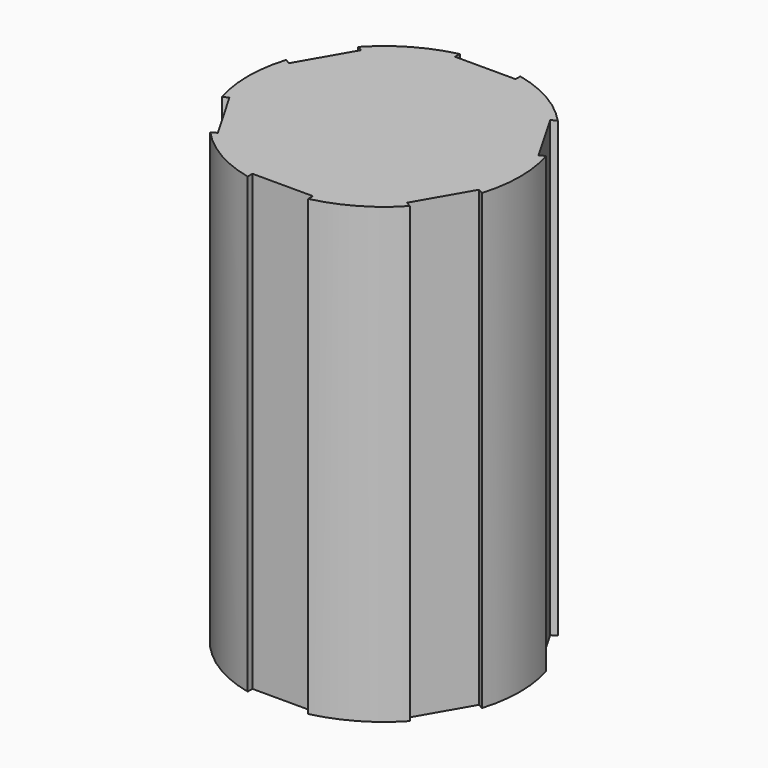
from build123d import *

# Parameters (mm, degrees)
F1_DEPTH = 30


with BuildPart() as f1:
    # F0 (on Top) → F1 (new body)
    with BuildSketch(Plane.XY):
        with BuildLine():
            Line((2, -8.379183), (2, -8.774964))
            ThreePointArc((2, -8.774964), (4.5, -7.794229), (6.599342, -6.119533))
            Line((6.599342, -6.119533), (6.256585, -5.921642))
            Line((6.256585, -5.921642), (8.256585, -2.457541))
            Line((8.256585, -2.457541), (8.599342, -2.655431))
            ThreePointArc((8.599342, -2.655431), (9, 0), (8.599342, 2.655431))
            Line((8.599342, 2.655431), (8.256585, 2.457541))
            Line((8.256585, 2.457541), (6.256585, 5.921642))
            Line((6.256585, 5.921642), (6.599342, 6.119533))
            ThreePointArc((6.599342, 6.119533), (4.5, 7.794229), (2, 8.774964))
            Line((2, 8.774964), (2, 8.379183))
            Line((2, 8.379183), (-2, 8.379183))
            Line((-2, 8.379183), (-2, 8.774964))
            ThreePointArc((-2, 8.774964), (-4.5, 7.794229), (-6.599342, 6.119533))
            Line((-6.599342, 6.119533), (-6.256585, 5.921642))
            Line((-6.256585, 5.921642), (-8.256585, 2.457541))
            Line((-8.256585, 2.457541), (-8.599342, 2.655431))
            ThreePointArc((-8.599342, 2.655431), (-9, 0), (-8.599342, -2.655431))
            Line((-8.599342, -2.655431), (-8.256585, -2.457541))
            Line((-8.256585, -2.457541), (-6.256585, -5.921642))
            Line((-6.256585, -5.921642), (-6.599342, -6.119533))
            ThreePointArc((-6.599342, -6.119533), (-4.5, -7.794229), (-2, -8.774964))
            Line((-2, -8.774964), (-2, -8.379183))
            Line((-2, -8.379183), (2, -8.379183))
        make_face()
    extrude(amount=F1_DEPTH)


solid = f1.part
